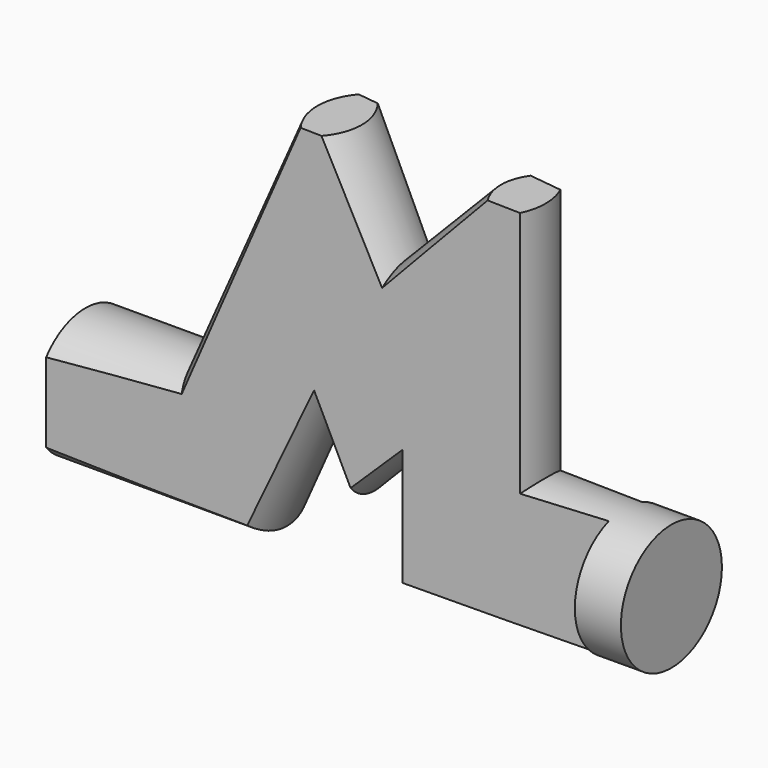
from build123d import *

# Parameters (mm, degrees)
F1_R     = 7.4238247782
F3_W     = 24.2328178138
F3_H     = 90.0287199765
F3_W_2   = 11.5328170359
F3_H_2   = 77.3287191987
F4_DEPTH = 63.5
F4_TAPER = -3


with BuildPart() as f2:
    # F2: sweep along a path in F0
    with BuildLine(Plane.XZ) as f2_path:
        Line((0, 0), (18.8963264227, 0))
        Line((18.8963264227, 0), (30.0118159503, 25.0590108335))
        Line((30.0118159503, 25.0590108335), (36.1253321171, 12.3736970127))
        Line((36.1253321171, 12.3736970127), (46.6850474477, 23.2028663158))
        Line((46.6850474477, 23.2028663158), (46.6850474477, 0))
        Line((46.6850474477, 0), (68.916015327, 0))
    # F1 (on Right) → F2 (sweep)
    with BuildSketch(Plane.YZ):
        Circle(F1_R)
    sweep(path=f2_path.line, transition=Transition.RIGHT)

    # F3 (on Right) → F4 (cut, symmetric)
    with BuildSketch(Plane.YZ):
        Rectangle(F3_W, F3_H)
        Rectangle(F3_W_2, F3_H_2, mode=Mode.SUBTRACT)
    extrude(amount=F4_DEPTH, both=True, taper=F4_TAPER, mode=Mode.SUBTRACT)


solid = f2.part
